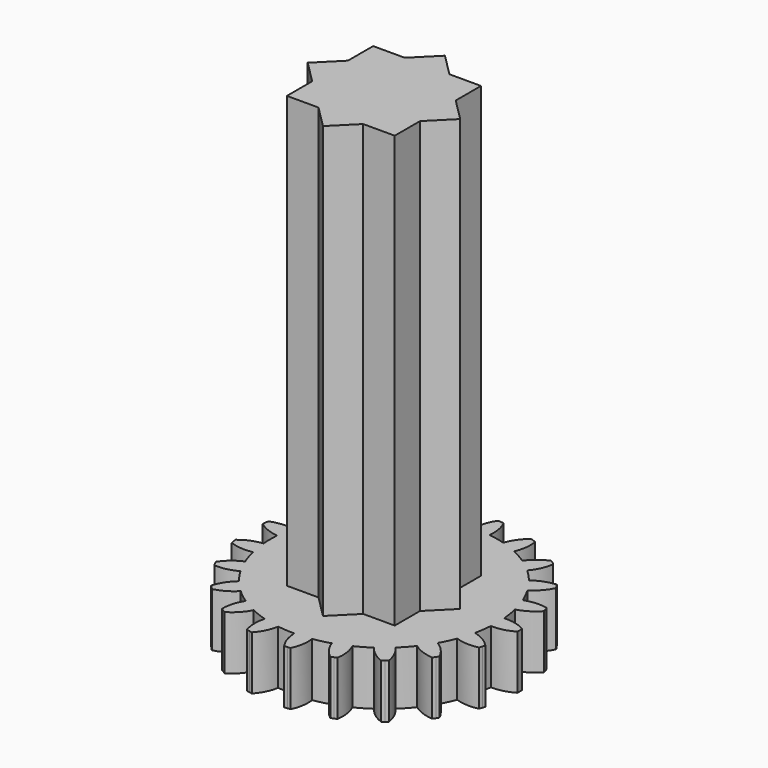
from build123d import *

# Parameters (mm, degrees)
F1_DEPTH = 2.5
F3_DEPTH = 20
F5_DEPTH = 7


with BuildPart() as f1:
    # F0 (on Top) → F1 (new body)
    with BuildSketch(Plane.XY):
        with BuildLine():
            ThreePointArc((62.8365565144, 3.362066225), (62.8481611829, 3.2932454376), (62.8611358083, 3.2246697262))
            ThreePointArc((62.8611358083, 3.2246697262), (63.3821632788, 3.1048254944), (63.9158244158, 3.1370443667))
            ThreePointArc((63.9158244158, 3.1370443667), (63.8402378714, 3.521033735), (63.7934657065, 3.9095868526))
            ThreePointArc((63.7934657065, 3.9095868526), (63.2759676256, 3.7753184605), (62.817474959, 3.50033348))
            ThreePointArc((62.817474959, 3.50033348), (62.8263264172, 3.431104723), (62.8365565144, 3.362066225))
        make_face()
        with BuildLine():
            ThreePointArc((63.7934657065, 3.9095868526), (63.8402378714, 3.521033735), (63.9158244158, 3.1370443667))
            ThreePointArc((63.9158244158, 3.1370443667), (64.0205596733, 2.7573683946), (64.1534635918, 2.3866125903))
            ThreePointArc((64.1534635918, 2.3866125903), (64.3126858426, 2.0291081351), (64.4980971421, 1.6844578621))
            ThreePointArc((64.4980971421, 1.6844578621), (64.7100907634, 1.3525210873), (64.9463723255, 1.0374110408))
            ThreePointArc((64.9463723255, 1.0374110408), (65.2038970665, 0.7427210878), (65.4826585135, 0.4680335994))
            ThreePointArc((65.4826585135, 0.4680335994), (65.7830739349, 0.2133300609), (66.1017384869, -0.0181353173))
            ThreePointArc((66.1017384869, -0.0181353173), (66.4346835147, -0.2238262726), (66.7820259313, -0.4041437877))
            ThreePointArc((66.7820259313, -0.4041437877), (67.1441699244, -0.5589825627), (67.5169027223, -0.686236558))
            ThreePointArc((67.5169027223, -0.686236558), (67.8956844101, -0.7846519716), (68.2807448984, -0.8545775108))
            ThreePointArc((68.2807448984, -0.8545775108), (68.67243938, -0.8957934176), (69.0661214791, -0.907528954))
            ThreePointArc((69.0661214791, -0.907528954), (69.4570834117, -0.8899241845), (69.8456476574, -0.8432445568))
            ThreePointArc((69.8456476574, -0.8432445568), (70.232088854, -0.7671753812), (70.6117398722, -0.662349705))
            ThreePointArc((70.6117398722, -0.662349705), (70.9801433661, -0.5302890133), (71.3376857308, -0.3711519085))
            ThreePointArc((71.3376857308, -0.3711519085), (71.6845366462, -0.1845567307), (72.0164229243, 0.027515937))
            ThreePointArc((72.0164229243, 0.027515937), (72.3295337125, 0.2622983788), (72.624284988, 0.5197529305))
            ThreePointArc((72.624284988, 0.5197529305), (72.9007263963, 0.8002943103), (73.1553583821, 1.1007703821))
            ThreePointArc((73.1553583821, 1.1007703821), (73.3853551969, 1.4174131237), (73.591125439, 1.7503091558))
            ThreePointArc((73.591125439, 1.7503091558), (73.7725943078, 2.0998694047), (73.927346832, 2.4620502631))
            ThreePointArc((73.927346832, 2.4620502631), (74.0537934471, 2.8324182074), (74.1522990667, 3.2111764463))
            ThreePointArc((74.1522990667, 3.2111764463), (74.2226710907, 3.5986956022), (74.2637937123, 3.9903998886))
            ThreePointArc((74.2637937123, 3.9903998886), (74.2726488423, 4.1662582611), (74.2756016595, 4.3423146764))
            ThreePointArc((74.2756016595, 4.3423146764), (74.2711851699, 4.5576136217), (74.2579431316, 4.7725503326))
            ThreePointArc((74.2579431316, 4.7725503326), (74.2109654476, 5.1635956179), (74.1348042413, 5.5500186873))
            ThreePointArc((74.1348042413, 5.5500186873), (74.0306436457, 5.9272609583), (73.8986706949, 6.2956958927))
            ThreePointArc((73.8986706949, 6.2956958927), (73.7385174764, 6.6555212177), (73.5518396996, 7.0023276848))
            ThreePointArc((73.5518396996, 7.0023276848), (73.3411125556, 7.3321082656), (73.1064046894, 7.6452749595))
            ThreePointArc((73.1064046894, 7.6452749595), (72.8473062526, 7.9419082651), (72.5666990449, 8.2182828532))
            ThreePointArc((72.5666990449, 8.2182828532), (72.2681293841, 8.471299292), (71.9515414263, 8.7013715103))
            ThreePointArc((71.9515414263, 8.7013715103), (71.6165198043, 8.9084556255), (71.2669163477, 9.0898412397))
            ThreePointArc((71.2669163477, 9.0898412397), (70.9070333946, 9.2436119155), (70.5366955747, 9.370146732))
            ThreePointArc((70.5366955747, 9.370146732), (70.1555189089, 9.4692813244), (69.7679830045, 9.5395610568))
            ThreePointArc((69.7679830045, 9.5395610568), (69.378763939, 9.5804227704), (68.9875823974, 9.5921770113))
            ThreePointArc((68.9875823974, 9.5921770113), (68.5941199073, 9.5745535373), (68.203085821, 9.5274827253))
            ThreePointArc((68.203085821, 9.5274827253), (67.819114465, 9.4518047341), (67.4418473984, 9.3477339836))
            ThreePointArc((67.4418473984, 9.3477339836), (67.0710599529, 9.2149183661), (66.7112727793, 9.054679458))
            ThreePointArc((66.7112727793, 9.054679458), (66.3666666728, 8.8691860835), (66.0368359156, 8.6585374844))
            ThreePointArc((66.0368359156, 8.6585374844), (65.7216696065, 8.4223309741), (65.4250980149, 8.1631618999))
            ThreePointArc((65.4250980149, 8.1631618999), (65.1504769227, 7.8843350426), (64.8973893852, 7.5858256474))
            ThreePointArc((64.8973893852, 7.5858256474), (64.6658481221, 7.2672162291), (64.4588437998, 6.9321452985))
            ThreePointArc((64.4588437998, 6.9321452985), (64.2786090112, 6.5847599482), (64.1247526318, 6.2249136266))
            ThreePointArc((64.1247526318, 6.2249136266), (63.9974098719, 5.8522111454), (63.8983660615, 5.471010881))
            ThreePointArc((63.8983660615, 5.471010881), (63.8285322283, 5.0859337506), (63.7875778214, 4.6967244275))
            ThreePointArc((63.7875778214, 4.6967244275), (63.7757485279, 4.3030451344), (63.7934657065, 3.9095868526))
        make_face()
        with BuildLine():
            ThreePointArc((64.4980971421, 1.6844578621), (64.3126858426, 2.0291081351), (64.1534635918, 2.3866125903))
            ThreePointArc((64.1534635918, 2.3866125903), (63.698532802, 2.105774129), (63.341462924, 1.7078628737))
            ThreePointArc((63.341462924, 1.7078628737), (63.3703266711, 1.6443187693), (63.4004517284, 1.5813628321))
            ThreePointArc((63.4004517284, 1.5813628321), (63.4318261172, 1.5190200954), (63.4644373622, 1.4573153484))
            ThreePointArc((63.4644373622, 1.4573153484), (63.9976417514, 1.4963710024), (64.4980971421, 1.6844578621))
        make_face()
        with BuildLine():
            ThreePointArc((62.8055740977, 5.0913317626), (63.2681290721, 4.8232363308), (63.7875778214, 4.6967244275))
            ThreePointArc((63.7875778214, 4.6967244275), (63.8285322283, 5.0859337506), (63.8983660615, 5.471010881))
            ThreePointArc((63.8983660615, 5.471010881), (63.364282665, 5.495242894), (62.8451062952, 5.3676178105))
            ThreePointArc((62.8451062952, 5.3676178105), (62.8331589736, 5.2988556799), (62.8225851218, 5.2298689945))
            ThreePointArc((62.8225851218, 5.2298689945), (62.8133889443, 5.1606851855), (62.8055740977, 5.0913317626))
        make_face()
        with BuildLine():
            ThreePointArc((65.4826585135, 0.4680335994), (65.2038970665, 0.7427210878), (64.9463723255, 1.0374110408))
            ThreePointArc((64.9463723255, 1.0374110408), (64.5944314239, 0.6349562401), (64.3705115601, 0.1494748713))
            ThreePointArc((64.3705115601, 0.1494748713), (64.4168229255, 0.0972615919), (64.4641661992, 0.0459821269))
            ThreePointArc((64.4641661992, 0.0459821269), (64.5125225562, -0.0043431335), (64.5618727686, -0.0536941786))
            ThreePointArc((64.5618727686, -0.0536941786), (65.0598765268, 0.1407910951), (65.4826585135, 0.4680335994))
        make_face()
        with BuildLine():
            ThreePointArc((63.3026891321, 6.8914403438), (63.665671571, 6.4989151677), (64.1247526318, 6.2249136266))
            ThreePointArc((64.1247526318, 6.2249136266), (64.2786090112, 6.5847599482), (64.4588437998, 6.9321452985))
            ThreePointArc((64.4588437998, 6.9321452985), (63.9556307413, 7.1127245957), (63.4219017672, 7.1437994581))
            ThreePointArc((63.4219017672, 7.1437994581), (63.3902172378, 7.0816137708), (63.3597789701, 7.0188086679))
            ThreePointArc((63.3597789701, 7.0188086679), (63.3305990672, 6.9554091223), (63.3026891321, 6.8914403438))
        make_face()
        with BuildLine():
            ThreePointArc((66.7820259313, -0.4041437877), (66.4346835147, -0.2238262726), (66.1017384869, -0.0181353173))
            ThreePointArc((66.1017384869, -0.0181353173), (65.884058967, -0.5064465823), (65.8131853801, -1.0363609145))
            ThreePointArc((65.8131853801, -1.0363609145), (65.8728293957, -1.0726039898), (65.9331842283, -1.1076505772))
            ThreePointArc((65.9331842283, -1.1076505772), (65.994225879, -1.1414867411), (66.0559300757, -1.1740990272))
            ThreePointArc((66.0559300757, -1.1740990272), (66.4744833834, -0.8414650039), (66.7820259313, -0.4041437877))
        make_face()
        with BuildLine():
            ThreePointArc((64.3083100591, 8.4650479229), (64.53946738, 7.9829705869), (64.8973893852, 7.5858256474))
            ThreePointArc((64.8973893852, 7.5858256474), (65.1504769227, 7.8843350426), (65.4250980149, 8.1631618999))
            ThreePointArc((65.4250980149, 8.1631618999), (64.9974679829, 8.4840432185), (64.4966105661, 8.6710568887))
            ThreePointArc((64.4966105661, 8.6710568887), (64.4480041383, 8.6209731161), (64.4004060283, 8.5699301045))
            ThreePointArc((64.4004060283, 8.5699301045), (64.3538351626, 8.5179481502), (64.3083100591, 8.4650479229))
        make_face()
        with BuildLine():
            ThreePointArc((68.2807448984, -0.8545775108), (67.8956844101, -0.7846519716), (67.5169027223, -0.686236558))
            ThreePointArc((67.5169027223, -0.686236558), (67.4528263648, -1.2170156884), (67.541296484, -1.7442777702))
            ThreePointArc((67.541296484, -1.7442777702), (67.6089735173, -1.7613302851), (67.676977117, -1.7770299517))
            ThreePointArc((67.676977117, -1.7770299517), (67.7452802427, -1.7913705274), (67.8138557352, -1.8043463098))
            ThreePointArc((67.8138557352, -1.8043463098), (68.1157682943, -1.3631195297), (68.2807448984, -0.8545775108))
        make_face()
        with BuildLine():
            ThreePointArc((65.7330830463, 9.6723325607), (65.8118759068, 9.1435377517), (66.0368359156, 8.6585374844))
            ThreePointArc((66.0368359156, 8.6585374844), (66.3666666728, 8.8691860835), (66.7112727793, 9.054679458))
            ThreePointArc((66.7112727793, 9.054679458), (66.3972225788, 9.4873510845), (65.9737400987, 9.8136865774))
            ThreePointArc((65.9737400987, 9.8136865774), (65.912530667, 9.7801548823), (65.8520020158, 9.7454093578))
            ThreePointArc((65.8520020158, 9.7454093578), (65.7921782129, 9.7094638195), (65.7330830463, 9.6723325607))
        make_face()
        with BuildLine():
            ThreePointArc((69.8456476574, -0.8432445568), (69.4570834117, -0.8899241845), (69.0661214791, -0.907528954))
            ThreePointArc((69.0661214791, -0.907528954), (69.1613417496, -1.4336138949), (69.4012946164, -1.9113741763))
            ThreePointArc((69.4012946164, -1.9113741763), (69.470991266, -1.9077209401), (69.5406012146, -1.9026787017))
            ThreePointArc((69.5406012146, -1.9026787017), (69.610096783, -1.8962494661), (69.6794503378, -1.8884357897))
            ThreePointArc((69.6794503378, -1.8884357897), (69.8378958925, -1.3778211884), (69.8456476574, -0.8432445568))
        make_face()
        with BuildLine():
            ThreePointArc((67.4504107613, 10.4060217191), (67.3698380699, 9.8774951764), (67.4418473984, 9.3477339836))
            ThreePointArc((67.4418473984, 9.3477339836), (67.819114465, 9.4518047341), (68.203085821, 9.5274827253))
            ThreePointArc((68.203085821, 9.5274827253), (68.0305201906, 10.0334998871), (67.7220409239, 10.470160862))
            ThreePointArc((67.7220409239, 10.470160862), (67.6536672149, 10.4561606827), (67.5855862586, 10.4407999375))
            ThreePointArc((67.5855862586, 10.4407999375), (67.5178251261, 10.4240847341), (67.4504107613, 10.4060217191))
        make_face()
        with BuildLine():
            ThreePointArc((71.3376857308, -0.3711519085), (70.9801433661, -0.5302890133), (70.6117398722, -0.662349705))
            ThreePointArc((70.6117398722, -0.662349705), (70.8577960316, -1.1369955005), (71.227910781, -1.5228028841))
            ThreePointArc((71.227910781, -1.5228028841), (71.2934341937, -1.4987685028), (71.3584653417, -1.4734323843))
            ThreePointArc((71.3584653417, -1.4734323843), (71.4229783665, -1.4468046032), (71.4869476159, -1.4188957474))
            ThreePointArc((71.4869476159, -1.4188957474), (71.4878475833, -0.8842636731), (71.3376857308, -0.3711519085))
        make_face()
        with BuildLine():
            ThreePointArc((69.3077011002, 10.6009238966), (69.0749220941, 10.119627523), (68.9875823974, 9.5921770113))
            ThreePointArc((68.9875823974, 9.5921770113), (69.378763939, 9.5804227704), (69.7679830045, 9.5395610568))
            ThreePointArc((69.7679830045, 9.5395610568), (69.7522351576, 10.0739619084), (69.5861688411, 10.5821491213))
            ThreePointArc((69.5861688411, 10.5821491213), (69.5167061588, 10.5889244353), (69.4471221893, 10.594313339))
            ThreePointArc((69.4471221893, 10.594313339), (69.3774446011, 10.5983136897), (69.3077011002, 10.6009238966))
        make_face()
        with BuildLine():
            ThreePointArc((72.624284988, 0.5197529305), (72.3295337125, 0.2622983788), (72.0164229243, 0.027515937))
            ThreePointArc((72.0164229243, 0.027515937), (72.3914518033, -0.3535163514), (72.8588421154, -0.6130901579))
            ThreePointArc((72.8588421154, -0.6130901579), (72.9143702485, -0.5708101918), (72.969044293, -0.5274314187))
            ThreePointArc((72.969044293, -0.5274314187), (73.0228425089, -0.4829710873), (73.0757435044, -0.4374468763))
            ThreePointArc((73.0757435044, -0.4374468763), (72.9190179184, 0.073698265), (72.624284988, 0.5197529305))
        make_face()
        with BuildLine():
            ThreePointArc((71.1399256658, 10.2397211794), (70.7756237813, 9.8484202698), (70.5366955747, 9.370146732))
            ThreePointArc((70.5366955747, 9.370146732), (70.9070333946, 9.2436119155), (71.2669163477, 9.0898412397))
            ThreePointArc((71.2669163477, 9.0898412397), (71.4093855496, 9.6051419202), (71.4004879041, 10.1397007072))
            ThreePointArc((71.4004879041, 10.1397007072), (71.3361083128, 10.166649498), (71.2712041711, 10.1923092229))
            ThreePointArc((71.2712041711, 10.1923092229), (71.2058012867, 10.2166696789), (71.1399256658, 10.2397211794))
        make_face()
        with BuildLine():
            ThreePointArc((73.591125439, 1.7503091558), (73.3853551969, 1.4174131237), (73.1553583821, 1.1007703821))
            ThreePointArc((73.1553583821, 1.1007703821), (73.6260370189, 0.8472079918), (74.1491732134, 0.7369320342))
            ThreePointArc((74.1491732134, 0.7369320342), (74.1897721486, 0.7937008246), (74.2292310609, 0.8512678581))
            ThreePointArc((74.2292310609, 0.8512678581), (74.2675342602, 0.9096102442), (74.3046665162, 0.9687047843))
            ThreePointArc((74.3046665162, 0.9687047843), (74.004241133, 1.4109455038), (73.591125439, 1.7503091558))
        make_face()
        with BuildLine():
            ThreePointArc((72.7842832649, 9.3545080141), (72.3208283231, 9.0879713715), (71.9515414263, 8.7013715103))
            ThreePointArc((71.9515414263, 8.7013715103), (72.2681293841, 8.471299292), (72.5666990449, 8.2182828532))
            ThreePointArc((72.5666990449, 8.2182828532), (72.8547262819, 8.6686966358), (73.0037879023, 9.1821291028))
            ThreePointArc((73.0037879023, 9.1821291028), (72.9502118112, 9.2268568522), (72.895754515, 9.2705074191))
            ThreePointArc((72.895754515, 9.2705074191), (72.8404376677, 9.313063447), (72.7842832649, 9.3545080141))
        make_face()
        with BuildLine():
            ThreePointArc((74.1522990667, 3.2111764463), (74.0537934471, 2.8324182074), (73.927346832, 2.4620502631))
            ThreePointArc((73.927346832, 2.4620502631), (74.4518533641, 2.358487902), (74.9842524945, 2.407308296))
            ThreePointArc((74.9842524945, 2.407308296), (75.0063148381, 2.4735217546), (75.0270525206, 2.5401619649))
            ThreePointArc((75.0270525206, 2.5401619649), (75.0464572961, 2.6072024287), (75.0645214487, 2.6746164888))
            ThreePointArc((75.0645214487, 2.6746164888), (74.6470903819, 3.0086577577), (74.1522990667, 3.2111764463))
        make_face()
        with BuildLine():
            ThreePointArc((74.0946655087, 8.0239394751), (73.573237515, 7.9058500499), (73.1064046894, 7.6452749595))
            ThreePointArc((73.1064046894, 7.6452749595), (73.3411125556, 7.3321082656), (73.5518396996, 7.0023276848))
            ThreePointArc((73.5518396996, 7.0023276848), (73.9598324876, 7.3478333284), (74.2536085949, 7.7945187475))
            ThreePointArc((74.2536085949, 7.7945187475), (74.2155964747, 7.8530511985), (74.1764247939, 7.9108140631))
            ThreePointArc((74.1764247939, 7.9108140631), (74.1361091283, 7.967784373), (74.0946655087, 8.0239394751))
        make_face()
        with BuildLine():
            ThreePointArc((74.2756016595, 4.3423146764), (74.2726488423, 4.1662582611), (74.2637937123, 3.9903998886))
            ThreePointArc((74.2637937123, 3.9903998886), (74.7955234327, 4.046039527), (75.2898794997, 4.2496183664))
            ThreePointArc((75.2898794997, 4.2496183664), (75.2914449158, 4.3193931367), (75.2916187345, 4.3891852487))
            ThreePointArc((75.2916187345, 4.3891852487), (75.2904008866, 4.4589669508), (75.2877918565, 4.5287104957))
            ThreePointArc((75.2877918565, 4.5287104957), (74.7904456883, 4.7248712815), (74.2579431316, 4.7725503326))
            ThreePointArc((74.2579431316, 4.7725503326), (74.2711851699, 4.5576136217), (74.2756016595, 4.3423146764))
        make_face()
        with BuildLine():
            ThreePointArc((74.9546391842, 6.3662424162), (74.4215693042, 6.407092972), (73.8986706949, 6.2956958927))
            ThreePointArc((73.8986706949, 6.2956958927), (74.0306436457, 5.9272609583), (74.1348042413, 5.5500186873))
            ThreePointArc((74.1348042413, 5.5500186873), (74.6265106308, 5.7599164992), (75.0388979285, 6.1001649107))
            ThreePointArc((75.0388979285, 6.1001649107), (75.0198273229, 6.1673011983), (74.9994218332, 6.2340438765))
            ThreePointArc((74.9994218332, 6.2340438765), (74.9776895732, 6.3003664064), (74.9546391842, 6.3662424162))
        make_face()
    extrude(amount=F1_DEPTH)

    # F2 (on face) → F3 (join)
    with BuildSketch(Plane.XY.offset(2.5)):
        Polygon((70.0611355654, 1.8423146764), (71.5256016595, 1.8423146764), (71.5256016595, 3.3067807705), align=None)
        Polygon((69.0256016595, 0.8067807705), (70.0611355654, 1.8423146764), (67.9900677536, 1.8423146764), align=None)
        Polygon((67.9900677536, 1.8423146764), (70.0611355654, 1.8423146764), (71.5256016595, 3.3067807705), (71.5256016595, 5.3778485824), (70.0611355654, 6.8423146764), (67.9900677536, 6.8423146764), (66.5256016595, 5.3778485824), (66.5256016595, 3.3067807705), align=None)
        Polygon((71.5256016595, 5.3778485824), (71.5256016595, 3.3067807705), (72.5611355654, 4.3423146764), align=None)
        Polygon((66.5256016595, 1.8423146764), (67.9900677536, 1.8423146764), (66.5256016595, 3.3067807705), align=None)
        Polygon((70.0611355654, 6.8423146764), (71.5256016595, 5.3778485824), (71.5256016595, 6.8423146764), align=None)
        Polygon((65.4900677536, 4.3423146764), (66.5256016595, 3.3067807705), (66.5256016595, 5.3778485824), align=None)
        Polygon((67.9900677536, 6.8423146764), (70.0611355654, 6.8423146764), (69.0256016595, 7.8778485824), align=None)
        Polygon((66.5256016595, 6.8423146764), (66.5256016595, 5.3778485824), (67.9900677536, 6.8423146764), align=None)
    extrude(amount=F3_DEPTH)

    # F4 (on face) → F5 (cut)
    with BuildSketch(Plane(origin=(0, 0, 0), x_dir=(1, 0, 0), z_dir=(0, 0, -1))):
        with BuildLine():
            Line((66.9508354459, -4.1998835374), (68.3328171419, -6.2831805858))
            ThreePointArc((68.3328171419, -6.2831805858), (70.7511373118, -3.1789308992), (66.9508354459, -4.1998835374))
        make_face()
    extrude(amount=-F5_DEPTH, mode=Mode.SUBTRACT)


solid = f1.part
